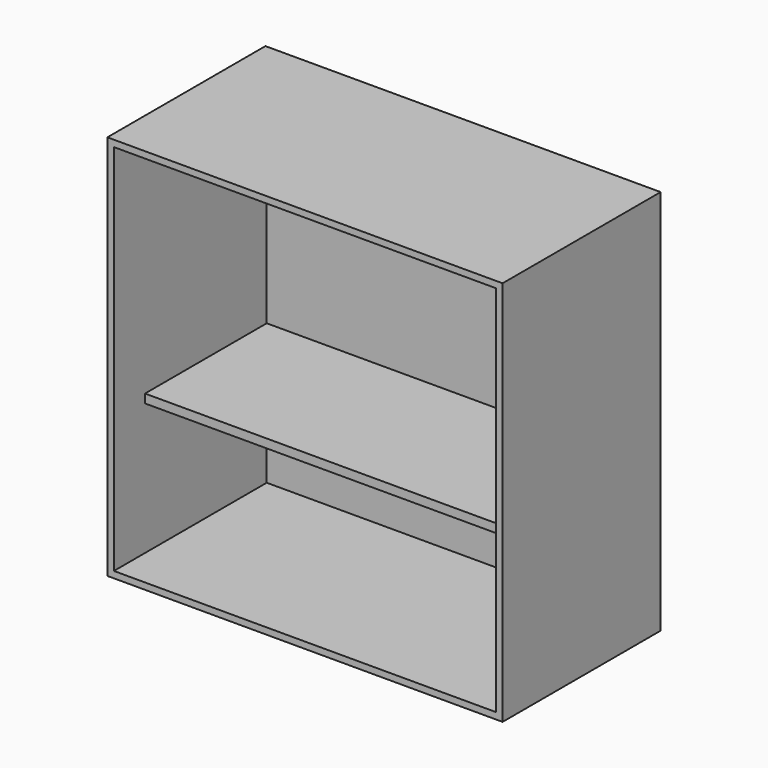
from build123d import *

# Parameters (mm, degrees)
F1_W     = 154.501944
F1_H     = 150.962084
F2_DEPTH = 77.229418
F3_T     = -2.54
F4_W     = 149.421944
F4_H     = 3.407732
F5_DEPTH = 59.480889


with BuildPart() as f2:
    # F1 (on face) → F2 (new body)
    with BuildSketch(Plane.XZ):
        Rectangle(F1_W, F1_H)
    extrude(amount=F2_DEPTH)

    # F3
    f3_openings = [f2.faces().sort_by_distance(p)[0] for p in [
        (0, -77.229418, 0),
    ]]
    offset(amount=F3_T, openings=f3_openings)

    # F4 (on face) → F5 (join)
    with BuildSketch(Plane.XZ.offset(2.54)):
        with Locations((0, -19.762568)):
            Rectangle(F4_W, F4_H)
    extrude(amount=F5_DEPTH)


solid = f2.part
